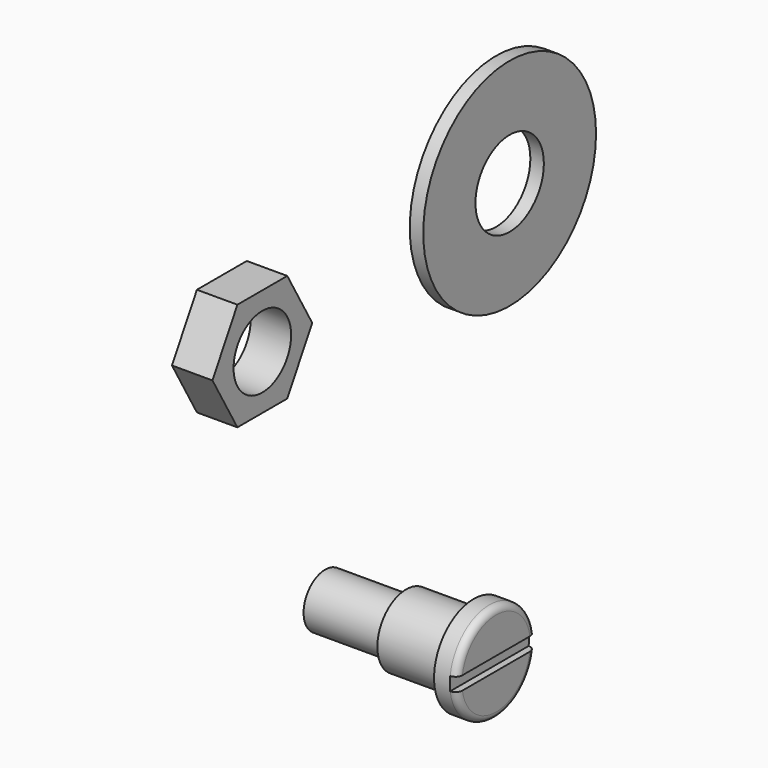
from build123d import *

# Parameters (mm, degrees)
F0_R     = 24
F0_R_2   = 9.5
F1_DEPTH = 3
F0_R_3   = 8
F2_DEPTH = 9
F0_R_4   = 11
F3_DEPTH = 5
F0_R_5   = 6
F4_DEPTH = 20
F5_DEPTH = 38
F7_DEPTH = 1.5
F8_R     = 1.5


with BuildPart() as f1:
    # F0 (on Right) → F1 (new body)
    with BuildSketch(Plane.YZ):
        with Locations((38.1007837561, 47.4529557896)):
            Circle(F0_R)
        with Locations((38.1007837561, 47.4529557896)):
            Circle(F0_R_2, mode=Mode.SUBTRACT)
    extrude(amount=F1_DEPTH)


with BuildPart() as f2:
    # F0 (on Right) → F2 (new body)
    with BuildSketch(Plane.YZ):
        Polygon((-31.1725805258, 59.4529557896), (-45.0289869863, 59.4529557896), (-51.9571902166, 47.4529557896), (-45.0289869863, 35.4529557896), (-31.1725805258, 35.4529557896), (-24.2443772955, 47.4529557896), align=None)
        with Locations((-38.1007837561, 47.4529557896)):
            Circle(F0_R_3, mode=Mode.SUBTRACT)
    extrude(amount=F2_DEPTH)


with BuildPart() as f3:
    # F0 (on Right) → F3 (new body)
    with BuildSketch(Plane.YZ):
        with Locations((38.1007837561, -47.4529557896)):
            Circle(F0_R_4)
        with Locations((38.1007837561, -47.4529557896)):
            Circle(F0_R_3, mode=Mode.SUBTRACT)
    extrude(amount=-F3_DEPTH)

    # F0 (on Right) → F4 (join)
    with BuildSketch(Plane.YZ):
        with Locations((38.1007837561, -47.4529557896)):
            Circle(F0_R_3)
        with Locations((38.1007837561, -47.4529557896)):
            Circle(F0_R_5, mode=Mode.SUBTRACT)
    extrude(amount=-F4_DEPTH)

    # F0 (on Right) → F5 (join)
    with BuildSketch(Plane.YZ):
        with Locations((38.1007837561, -47.4529557896)):
            Circle(F0_R_5)
    extrude(amount=-F5_DEPTH)

    # F6 (on face) → F7 (cut)
    with BuildSketch(Plane.YZ):
        with BuildLine():
            ThreePointArc((48.9980311149, -48.9529557896), (49.0750655309, -48.2047134144), (49.1007837561, -47.4529557896))
            ThreePointArc((49.1007837561, -47.4529557896), (49.0750655309, -46.7011981649), (48.9980311149, -45.9529557896))
            Line((48.9980311149, -45.9529557896), (45.9589005788, -45.9529557896))
            ThreePointArc((45.9589005788, -45.9529557896), (46.0652339751, -46.6996081216), (46.1007837561, -47.4529557896))
            ThreePointArc((46.1007837561, -47.4529557896), (46.0652339751, -48.2063034577), (45.9589005788, -48.9529557896))
            Line((45.9589005788, -48.9529557896), (48.9980311149, -48.9529557896))
        make_face()
        with BuildLine():
            ThreePointArc((46.1007837561, -47.4529557896), (46.0652339751, -46.6996081216), (45.9589005788, -45.9529557896))
            Line((45.9589005788, -45.9529557896), (30.2426669333, -45.9529557896))
            ThreePointArc((30.2426669333, -45.9529557896), (30.1007837561, -47.4529557896), (30.2426669333, -48.9529557896))
            Line((30.2426669333, -48.9529557896), (45.9589005788, -48.9529557896))
            ThreePointArc((45.9589005788, -48.9529557896), (46.0652339751, -48.2063034577), (46.1007837561, -47.4529557896))
        make_face()
        with BuildLine():
            Line((30.2426669333, -45.9529557896), (27.2035363972, -45.9529557896))
            ThreePointArc((27.2035363972, -45.9529557896), (27.1007837561, -47.4529557896), (27.2035363972, -48.9529557896))
            Line((27.2035363972, -48.9529557896), (30.2426669333, -48.9529557896))
            ThreePointArc((30.2426669333, -48.9529557896), (30.1007837561, -47.4529557896), (30.2426669333, -45.9529557896))
        make_face()
    extrude(amount=-F7_DEPTH, mode=Mode.SUBTRACT)

    # F8
    f8_edges = [f3.edges().sort_by_distance(p)[0] for p in [
        (0, 38.100784, -36.452956),
        (0, 38.100784, -58.452956),
    ]]
    fillet(f8_edges, radius=F8_R)


solid = Compound([f1.part, f2.part, f3.part])
